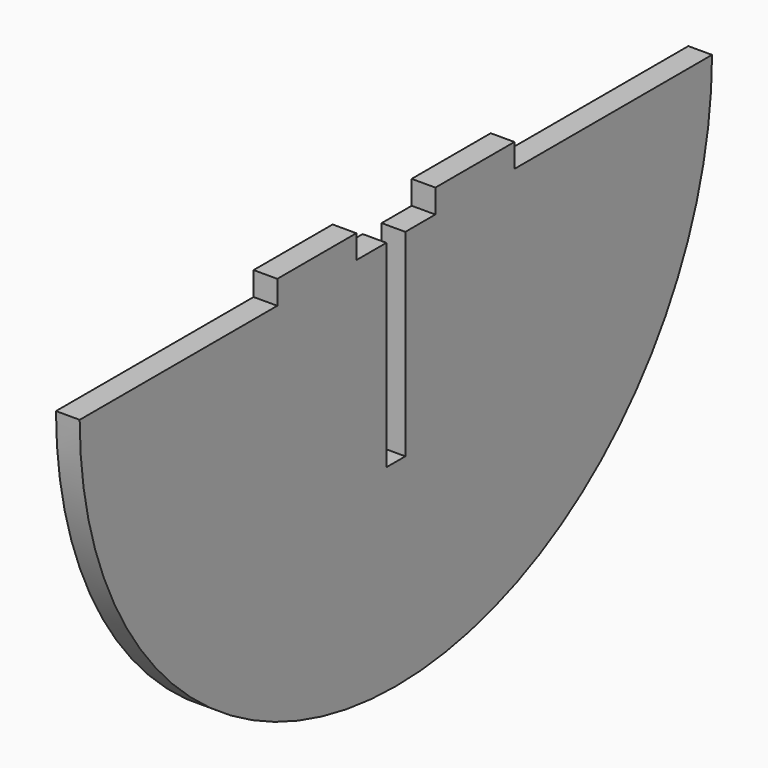
from build123d import *

# Parameters (mm, degrees)
F1_DEPTH = 3.048


with BuildPart() as f1:
    # F0 (on Right) → F1 (new body)
    with BuildSketch(Plane.YZ):
        with BuildLine():
            Line((-19.05, 50.8), (-50.8, 50.8))
            ThreePointArc((-50.8, 50.8), (0, 0), (50.8, 50.8))
            Line((50.8, 50.8), (19.05, 50.8))
            Line((19.05, 50.8), (19.05, 53.848))
            Line((19.05, 53.848), (6.35, 53.848))
            Line((6.35, 53.848), (6.35, 50.8))
            Line((6.35, 50.8), (1.524, 50.8))
            Line((1.524, 50.8), (1.524, 25.4))
            Line((1.524, 25.4), (-1.524, 25.4))
            Line((-1.524, 25.4), (-1.524, 50.8))
            Line((-1.524, 50.8), (-6.35, 50.8))
            Line((-6.35, 50.8), (-6.35, 53.848))
            Line((-6.35, 53.848), (-19.05, 53.848))
            Line((-19.05, 53.848), (-19.05, 50.8))
        make_face()
    extrude(amount=F1_DEPTH)


solid = f1.part
